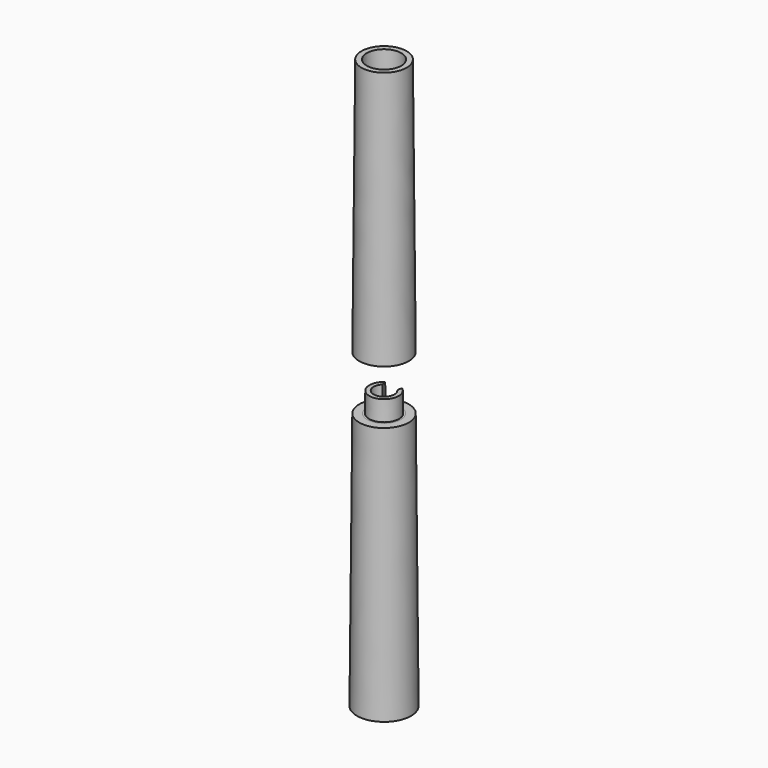
from build123d import *

# Parameters (mm, degrees)
F3_R      = 17.5
F3_R_2    = 6.5
F5_DEPTH  = 166.6666666667
F5_TAPER  = 0.5
F6_DEPTH  = 500
F8_DEPTH  = 13
F8_TAPER  = 1
F7_R      = 10.9
F7_R_2    = 1.8
F9_DEPTH  = 3.6
F10_DEPTH = 3.2
F12_R     = 16.0455220349
F12_R_2   = 9.7
F13_DEPTH = 166.6666666667
F13_TAPER = 0.5


with BuildPart() as f5:
    # F3 (on Top) → F5 (new body)
    with BuildSketch(Plane.XY):
        Circle(F3_R)
        Circle(F3_R_2, mode=Mode.SUBTRACT)
        Circle(F3_R_2)
    extrude(amount=F5_DEPTH, taper=F5_TAPER)

    # F3 (on Top) → F6 (cut)
    with BuildSketch(Plane.XY):
        Circle(F3_R_2)
    extrude(amount=F6_DEPTH, mode=Mode.SUBTRACT)

    # F7 (on offset) → F8 (join)
    with BuildSketch(Plane.XY.offset(166.6666666667)):
        with BuildLine():
            ThreePointArc((4.538274849, 4.6533924609), (0, -6.5), (-4.538274849, 4.6533924609))
            Line((-4.538274849, 4.6533924609), (-5.3202042822, 8.1108215611))
            ThreePointArc((-5.3202042822, 8.1108215611), (0, -9.7), (5.3202042822, 8.1108215611))
            Line((5.3202042822, 8.1108215611), (4.538274849, 4.6533924609))
        make_face()
    extrude(amount=F8_DEPTH, taper=F8_TAPER)

    # F7 (on offset) → F9 (cut)
    with BuildSketch(Plane.XY.offset(166.6666666667)):
        Circle(F7_R)
        with BuildLine():
            Line((-5.3202042822, 8.1108215611), (-4.538274849, 4.6533924609))
            Line((-4.538274849, 4.6533924609), (-3.3162478798, -0.75))
            ThreePointArc((-3.3162478798, -0.75), (0, -3.4), (3.3162478798, -0.75))
            Line((3.3162478798, -0.75), (4.538274849, 4.6533924609))
            Line((4.538274849, 4.6533924609), (5.3202042822, 8.1108215611))
            ThreePointArc((5.3202042822, 8.1108215611), (0, -9.7), (-5.3202042822, 8.1108215611))
        make_face(mode=Mode.SUBTRACT)
        Circle(F7_R_2, mode=Mode.SUBTRACT)
    extrude(amount=-F9_DEPTH, mode=Mode.SUBTRACT)


with BuildPart() as f10:
    # F7 (on offset) → F10 (new body)
    with BuildSketch(Plane.XY.offset(166.6666666667)):
        Circle(F7_R)
        with BuildLine():
            Line((-5.3202042822, 8.1108215611), (-4.538274849, 4.6533924609))
            Line((-4.538274849, 4.6533924609), (-3.3162478798, -0.75))
            ThreePointArc((-3.3162478798, -0.75), (0, -3.4), (3.3162478798, -0.75))
            Line((3.3162478798, -0.75), (4.538274849, 4.6533924609))
            Line((4.538274849, 4.6533924609), (5.3202042822, 8.1108215611))
            ThreePointArc((5.3202042822, 8.1108215611), (0, -9.7), (-5.3202042822, 8.1108215611))
        make_face(mode=Mode.SUBTRACT)
        Circle(F7_R_2, mode=Mode.SUBTRACT)
    extrude(amount=-F10_DEPTH)


with BuildPart() as f13:
    # F12 (on offset) → F13 (new body)
    with BuildSketch(Plane.XY.offset(201.6666666667)):
        Circle(F12_R)
        Circle(F12_R_2, mode=Mode.SUBTRACT)
    extrude(amount=F13_DEPTH, taper=F13_TAPER)


solid = Compound([f5.part, f10.part, f13.part])
